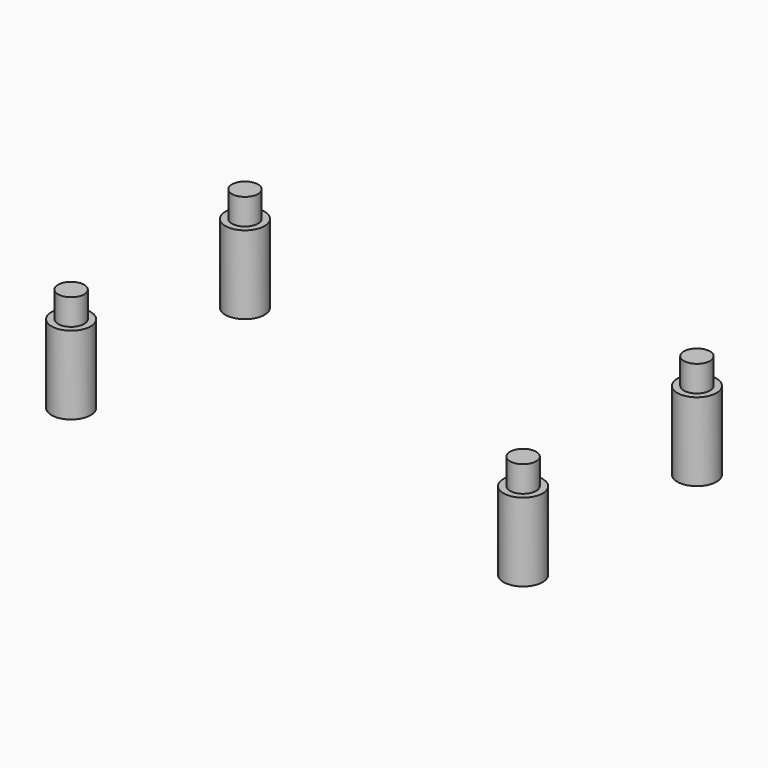
from build123d import *

# Parameters (mm, degrees)
SKETCH001_R  = 2.25
PAD_DEPTH    = 9
SKETCH_R     = 1.5
PAD001_DEPTH = 12


with BuildPart() as pad_mounting_pads:
    # Sketch001 → Pad (new body)
    with BuildSketch(Plane.XY):
        with Locations((-26, 12.5)):
            Circle(SKETCH001_R)
        with Locations((-26, -12.5)):
            Circle(SKETCH001_R)
        with Locations((26, 12.5)):
            Circle(SKETCH001_R)
        with Locations((26, -12.5)):
            Circle(SKETCH001_R)
    extrude(amount=PAD_DEPTH)


with BuildPart() as pad_mounting_posts:
    # Sketch → Pad001 (new body)
    with BuildSketch(Plane.XY):
        with Locations((-26, 12.5)):
            Circle(SKETCH_R)
        with Locations((-26, -12.5)):
            Circle(SKETCH_R)
        with Locations((26, 12.5)):
            Circle(SKETCH_R)
        with Locations((26, -12.5)):
            Circle(SKETCH_R)
    extrude(amount=PAD001_DEPTH)


solid = Compound([pad_mounting_pads.part, pad_mounting_posts.part])
